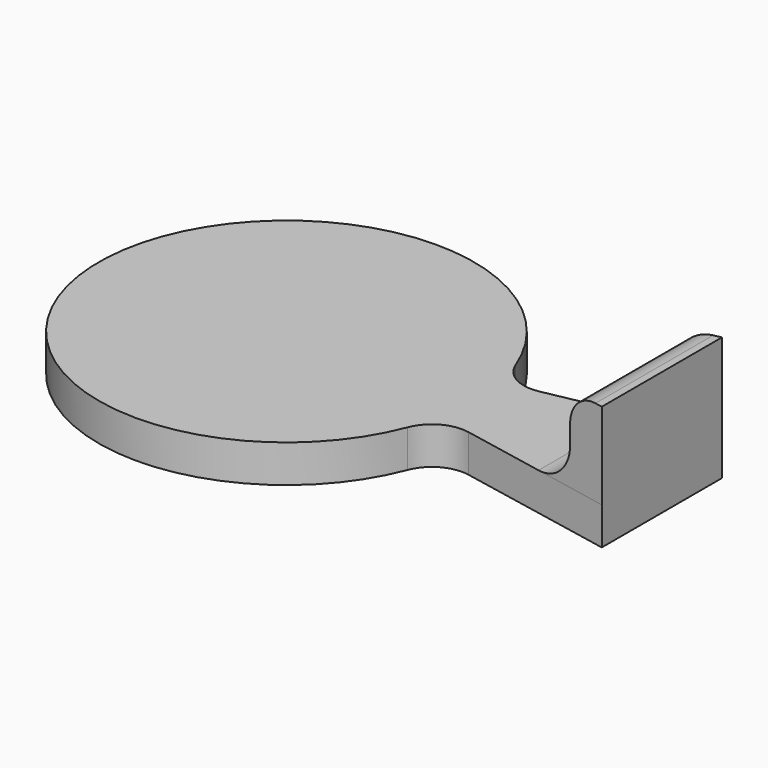
from build123d import *

# Parameters (mm, degrees)
F1_DEPTH = 5
F3_DEPTH = 11.5
F4_R     = 5
F5_R     = 4


with BuildPart() as f1:
    # F0 (on Top) → F1 (new body)
    with BuildSketch(Plane.XY):
        with BuildLine():
            Line((50, 10), (24.494897, 5))
            ThreePointArc((24.494897, 5), (-25, 0), (24.494897, -5))
            Line((24.494897, -5), (50, -10))
            Line((50, -10), (50, 10))
        make_face()
    extrude(amount=F1_DEPTH)

    # F2 (on face) → F3 (join)
    with BuildSketch(Plane.XY.offset(5)):
        Polygon((50, -10), (50, 10), (45, 9.019804), (45, -9.019804), align=None)
    extrude(amount=F3_DEPTH)

    # F4
    f4_edges = [f1.edges().sort_by_distance(p)[0] for p in [
        (24.494897, 5, 2.5),
        (24.494897, -5, 2.5),
        (45, 0, 5),
    ]]
    fillet(f4_edges, radius=F4_R)

    # F5
    f5_edges = [f1.edges().sort_by_distance(p)[0] for p in [
        (45, 0, 16.5),
    ]]
    fillet(f5_edges, radius=F5_R)


solid = f1.part
